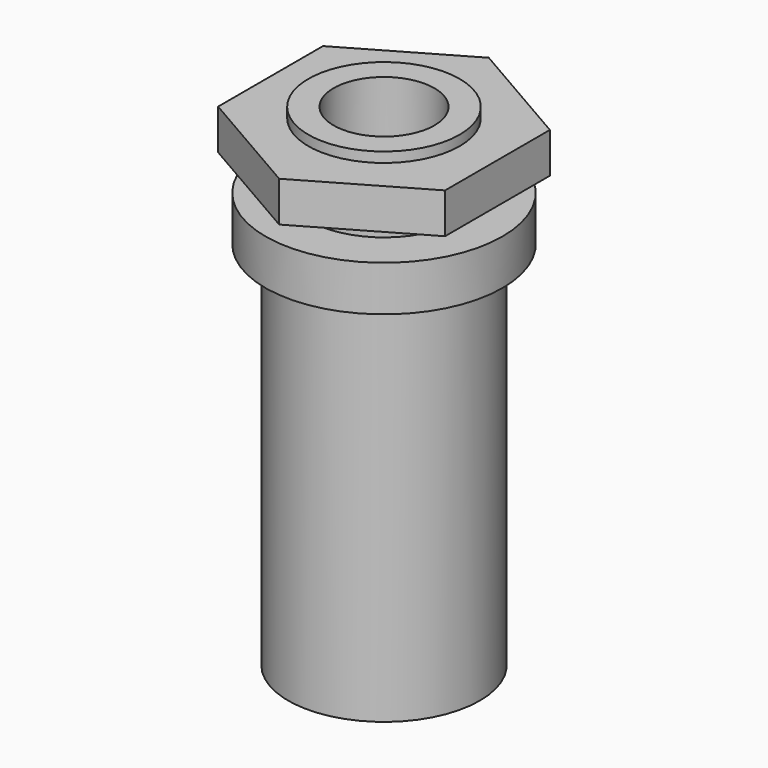
from build123d import *

# Parameters (mm, degrees)
F3_R     = 2
F4_DEPTH = 1.6


with BuildPart() as f1:
    # F0 (on Front) → F1 (revolve)
    with BuildSketch(Plane.XZ):
        Polygon((2, 0), (0, 0), (0, -16.5), (3.8, -16.5), (3.8, -1.8), (4.7, -1.8), (4.7, 0), (3, 0), (3, 3), (2, 3), align=None)
    revolve(axis=Axis((0, 0, -8.25), (0, 0, 1)))

    # F3 (on offset) → F4 (join)
    with BuildSketch(Plane.XY.offset(1)):
        Polygon((4.5, -2.598076), (4.5, 2.598076), (0, 5.196152), (-4.5, 2.598076), (-4.5, -2.598076), (0, -5.196152), align=None)
        Circle(F3_R, mode=Mode.SUBTRACT)
    extrude(amount=F4_DEPTH)


solid = f1.part
